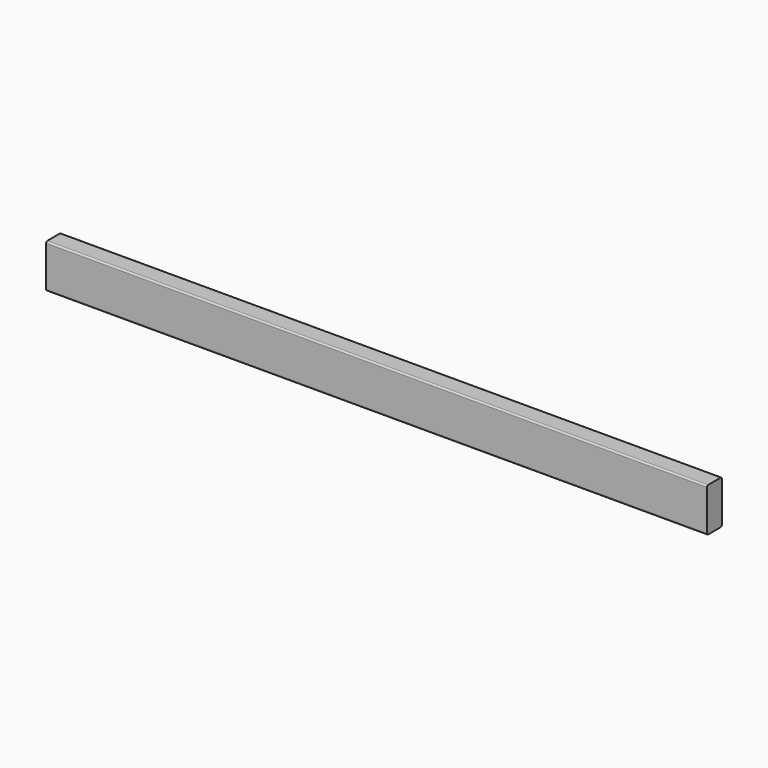
from build123d import *

# Parameters (mm, degrees)
F1_DEPTH = 368.3
F2_DEPTH = 215.9
F3_DEPTH = 304.8
F4_DEPTH = 558.8
F5_DEPTH = 647.7
F6_DEPTH = 673.1


with BuildPart() as f1:
    # F0 (on Right) → F1 (new body, symmetric)
    with BuildSketch(Plane.YZ):
        with BuildLine():
            ThreePointArc((19.05, 41.275), (18.120064, 43.520064), (15.875, 44.45))
            Line((15.875, 44.45), (-15.875, 44.45))
            ThreePointArc((-15.875, 44.45), (-18.120064, 43.520064), (-19.05, 41.275))
            Line((-19.05, 41.275), (-19.05, -41.275))
            ThreePointArc((-19.05, -41.275), (-18.120064, -43.520064), (-15.875, -44.45))
            Line((-15.875, -44.45), (15.875, -44.45))
            ThreePointArc((15.875, -44.45), (18.120064, -43.520064), (19.05, -41.275))
            Line((19.05, -41.275), (19.05, 41.275))
        make_face()
    extrude(amount=F1_DEPTH, both=True)


with BuildPart() as f2:
    # F0 (on Right) → F2 (new body, symmetric)
    with BuildSketch(Plane.YZ):
        with BuildLine():
            ThreePointArc((19.05, 41.275), (18.120064, 43.520064), (15.875, 44.45))
            Line((15.875, 44.45), (-15.875, 44.45))
            ThreePointArc((-15.875, 44.45), (-18.120064, 43.520064), (-19.05, 41.275))
            Line((-19.05, 41.275), (-19.05, -41.275))
            ThreePointArc((-19.05, -41.275), (-18.120064, -43.520064), (-15.875, -44.45))
            Line((-15.875, -44.45), (15.875, -44.45))
            ThreePointArc((15.875, -44.45), (18.120064, -43.520064), (19.05, -41.275))
            Line((19.05, -41.275), (19.05, 41.275))
        make_face()
    extrude(amount=F2_DEPTH, both=True)


with BuildPart() as f3:
    # F0 (on Right) → F3 (new body, symmetric)
    with BuildSketch(Plane.YZ):
        with BuildLine():
            ThreePointArc((19.05, 41.275), (18.120064, 43.520064), (15.875, 44.45))
            Line((15.875, 44.45), (-15.875, 44.45))
            ThreePointArc((-15.875, 44.45), (-18.120064, 43.520064), (-19.05, 41.275))
            Line((-19.05, 41.275), (-19.05, -41.275))
            ThreePointArc((-19.05, -41.275), (-18.120064, -43.520064), (-15.875, -44.45))
            Line((-15.875, -44.45), (15.875, -44.45))
            ThreePointArc((15.875, -44.45), (18.120064, -43.520064), (19.05, -41.275))
            Line((19.05, -41.275), (19.05, 41.275))
        make_face()
    extrude(amount=F3_DEPTH, both=True)


with BuildPart() as f4:
    # F0 (on Right) → F4 (new body, symmetric)
    with BuildSketch(Plane.YZ):
        with BuildLine():
            ThreePointArc((19.05, 41.275), (18.120064, 43.520064), (15.875, 44.45))
            Line((15.875, 44.45), (-15.875, 44.45))
            ThreePointArc((-15.875, 44.45), (-18.120064, 43.520064), (-19.05, 41.275))
            Line((-19.05, 41.275), (-19.05, -41.275))
            ThreePointArc((-19.05, -41.275), (-18.120064, -43.520064), (-15.875, -44.45))
            Line((-15.875, -44.45), (15.875, -44.45))
            ThreePointArc((15.875, -44.45), (18.120064, -43.520064), (19.05, -41.275))
            Line((19.05, -41.275), (19.05, 41.275))
        make_face()
    extrude(amount=F4_DEPTH, both=True)


with BuildPart() as f5:
    # F0 (on Right) → F5 (new body, symmetric)
    with BuildSketch(Plane.YZ):
        with BuildLine():
            ThreePointArc((19.05, 41.275), (18.120064, 43.520064), (15.875, 44.45))
            Line((15.875, 44.45), (-15.875, 44.45))
            ThreePointArc((-15.875, 44.45), (-18.120064, 43.520064), (-19.05, 41.275))
            Line((-19.05, 41.275), (-19.05, -41.275))
            ThreePointArc((-19.05, -41.275), (-18.120064, -43.520064), (-15.875, -44.45))
            Line((-15.875, -44.45), (15.875, -44.45))
            ThreePointArc((15.875, -44.45), (18.120064, -43.520064), (19.05, -41.275))
            Line((19.05, -41.275), (19.05, 41.275))
        make_face()
    extrude(amount=F5_DEPTH, both=True)


with BuildPart() as f6:
    # F0 (on Right) → F6 (new body, symmetric)
    with BuildSketch(Plane.YZ):
        with BuildLine():
            ThreePointArc((19.05, 41.275), (18.120064, 43.520064), (15.875, 44.45))
            Line((15.875, 44.45), (-15.875, 44.45))
            ThreePointArc((-15.875, 44.45), (-18.120064, 43.520064), (-19.05, 41.275))
            Line((-19.05, 41.275), (-19.05, -41.275))
            ThreePointArc((-19.05, -41.275), (-18.120064, -43.520064), (-15.875, -44.45))
            Line((-15.875, -44.45), (15.875, -44.45))
            ThreePointArc((15.875, -44.45), (18.120064, -43.520064), (19.05, -41.275))
            Line((19.05, -41.275), (19.05, 41.275))
        make_face()
    extrude(amount=F6_DEPTH, both=True)


solid = Compound([f1.part, f2.part, f3.part, f4.part, f5.part, f6.part])
